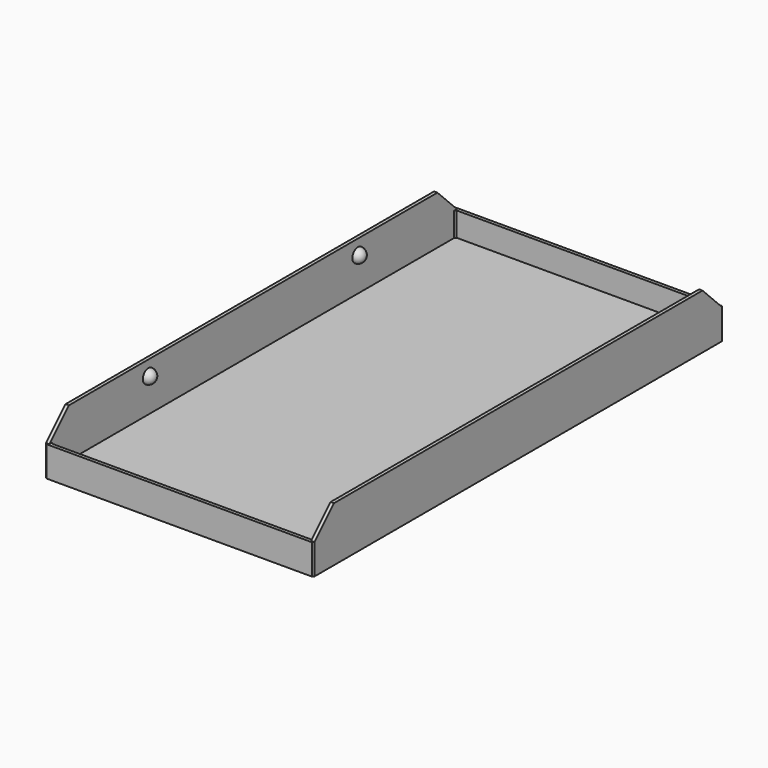
from build123d import *

# Parameters (mm, degrees)
F0_W      = 95.9
F0_H      = 183
F1_DEPTH  = 9.8
F2_T      = -1.2
F3_SIZE   = 0.5
F4_SIZE   = 0.5
F5_SIZE   = 0.5
F6_SIZE   = 0.5
F7_SIZE   = 0.5
F8_SIZE   = 0.5
F9_SIZE   = 0.5
F11_DEPTH = 1.2
F13_DEPTH = 1.2
F15_ANGLE = 180
F16_ANGLE = 180
F18_ANGLE = 180
F19_ANGLE = 180
F20_DEPTH = 1


with BuildPart() as f1:
    # F0 (on Top) → F1 (new body)
    with BuildSketch(Plane.XY):
        with Locations((13.8901774406, 31.2419057786)):
            Rectangle(F0_W, F0_H)
    extrude(amount=F1_DEPTH)

    # F2
    f2_openings = [f1.faces().sort_by_distance(p)[0] for p in [
        (13.890177, 31.241906, 9.8),
    ]]
    offset(amount=F2_T, openings=f2_openings)

    # F3
    f3_edges = [f1.edges().sort_by_distance(p)[0] for p in [
        (61.840177, -60.258094, 4.9),
    ]]
    chamfer(f3_edges, length=F3_SIZE)

    # F4
    f4_edges = [f1.edges().sort_by_distance(p)[0] for p in [
        (-34.059823, -60.258094, 4.9),
    ]]
    chamfer(f4_edges, length=F4_SIZE)

    # F5
    f5_edges = [f1.edges().sort_by_distance(p)[0] for p in [
        (-34.059823, 122.741906, 4.9),
    ]]
    chamfer(f5_edges, length=F5_SIZE)

    # F6
    f6_edges = [f1.edges().sort_by_distance(p)[0] for p in [
        (61.840177, 122.741906, 4.9),
    ]]
    chamfer(f6_edges, length=F6_SIZE)

    # F7
    f7_edges = [f1.edges().sort_by_distance(p)[0] for p in [
        (60.640177, 121.541906, 5.5),
    ]]
    chamfer(f7_edges, length=F7_SIZE)

    # F8
    f8_edges = [f1.edges().sort_by_distance(p)[0] for p in [
        (-32.859823, 121.541906, 5.5),
    ]]
    chamfer(f8_edges, length=F8_SIZE)

    # F9
    f9_edges = [f1.edges().sort_by_distance(p)[0] for p in [
        (60.640177, -59.058094, 5.5),
        (-32.859823, -59.058094, 5.5),
    ]]
    chamfer(f9_edges, length=F9_SIZE)

    # F10 (on face) → F11 (join, through all)
    with BuildSketch(Plane.YZ.offset(61.8401774406)):
        Polygon((-51.0580942214, 18.5), (-59.7580942214, 9.8), (122.2419057786, 9.8), (113.5419057786, 18.5), align=None)
    extrude(amount=-F11_DEPTH)

    # F12 (on face) → F13 (join, through all)
    with BuildSketch(Plane(origin=(-34.0598225594, 0, 0), x_dir=(0, -1, 0), z_dir=(-1, 0, 0))):
        Polygon((51.0580942214, 18.5), (-113.5419057786, 18.5), (-122.2419057786, 9.8), (59.7580942214, 9.8), align=None)
    extrude(amount=-F13_DEPTH)

    # F14 (on face) → F15 (revolve)
    with BuildSketch(Plane.YZ.offset(-32.8598225594)):
        with BuildLine():
            Line((-15.5580942214, 13.3), (-13.0580942214, 13.3))
            ThreePointArc((-13.0580942214, 13.3), (-15.5580942214, 15.8), (-18.0580942214, 13.3))
            Line((-18.0580942214, 13.3), (-15.5580942214, 13.3))
        make_face()
    revolve(axis=Axis((-32.8598225594, -14.3080942214, 13.3), (0, 1, 0)), revolution_arc=F15_ANGLE)

    # F14 (on face) → F16 (revolve)
    with BuildSketch(Plane.YZ.offset(-32.8598225594)):
        with BuildLine():
            Line((78.0419057786, 13.3), (80.5419057786, 13.3))
            ThreePointArc((80.5419057786, 13.3), (78.0419057786, 15.8), (75.5419057786, 13.3))
            Line((75.5419057786, 13.3), (78.0419057786, 13.3))
        make_face()
    revolve(axis=Axis((-32.8598225594, 79.2919057786, 13.3), (0, 1, 0)), revolution_arc=F16_ANGLE)

    # F17 (on face) → F18 (revolve)
    with BuildSketch(Plane(origin=(60.6401774406, 0, 0), x_dir=(0, -1, 0), z_dir=(-1, 0, 0))):
        with BuildLine():
            Line((-78.0419057786, 13.3), (-75.5419057786, 13.3))
            ThreePointArc((-75.5419057786, 13.3), (-78.0419057786, 15.8), (-80.5419057786, 13.3))
            Line((-80.5419057786, 13.3), (-78.0419057786, 13.3))
        make_face()
    revolve(axis=Axis((60.6401774406, 76.7919057786, 13.3), (0, -1, 0)), revolution_arc=F18_ANGLE)

    # F17 (on face) → F19 (revolve)
    with BuildSketch(Plane(origin=(60.6401774406, 0, 0), x_dir=(0, -1, 0), z_dir=(-1, 0, 0))):
        with BuildLine():
            Line((15.5580942214, 13.3), (18.0580942214, 13.3))
            ThreePointArc((18.0580942214, 13.3), (15.5580942214, 15.8), (13.0580942214, 13.3))
            Line((13.0580942214, 13.3), (15.5580942214, 13.3))
        make_face()
    revolve(axis=Axis((60.6401774406, -16.8080942214, 13.3), (0, -1, 0)), revolution_arc=F19_ANGLE)

    # F20 (add): a face of the model
    f20_faces = [f1.faces().sort_by_distance(p)[0] for p in [
        (13.8901774406, 31.2419057786, 0),
    ]]
    extrude(f20_faces, amount=F20_DEPTH)


solid = f1.part
